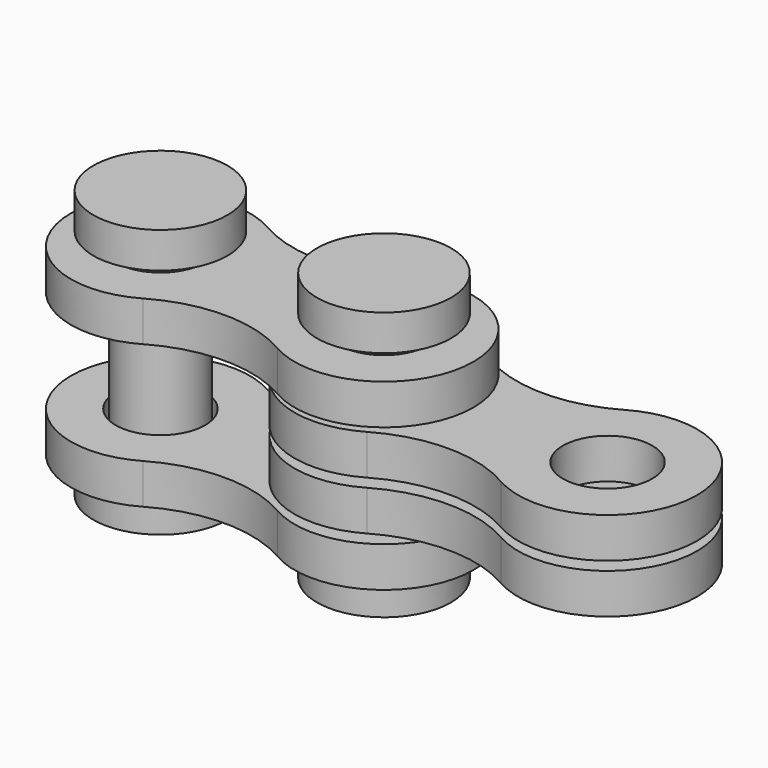
from build123d import *

# Parameters (mm, degrees)
F0_R      = 2.5
F1_DEPTH  = 2.25
F2_R      = 2.25
F3_DEPTH  = 11
F7_R      = 3.75
F8_DEPTH  = 2
F9_R      = 3.75
F10_DEPTH = 2


with BuildPart() as f1:
    # F0 (on Top) → F1 (new body)
    with BuildSketch(Plane.XY):
        with BuildLine():
            ThreePointArc((10, 4.3301270189), (6.25, 3.3253175473), (2.5, 4.3301270189))
            ThreePointArc((2.5, 4.3301270189), (-5, 0), (2.5, -4.3301270189))
            ThreePointArc((2.5, -4.3301270189), (6.25, -3.3253175473), (10, -4.3301270189))
            ThreePointArc((10, -4.3301270189), (17.5, 0), (10, 4.3301270189))
        make_face()
        Circle(F0_R, mode=Mode.SUBTRACT)
        with Locations((12.5, 0)):
            Circle(F0_R, mode=Mode.SUBTRACT)
    extrude(amount=F1_DEPTH)


with BuildPart() as f3:
    # F2 (on Top) → F3 (new body)
    with BuildSketch(Plane.XY):
        Circle(F2_R)
    extrude(amount=F3_DEPTH)

    # F7 (on face) → F8 (join)
    with BuildSketch(Plane.XY.offset(11)):
        Circle(F7_R)
    extrude(amount=F8_DEPTH)



with BuildPart() as f3b:
    # F2 (on Top) → F3, piece 2 (new body)
    with BuildSketch(Plane.XY):
        with Locations((12.5, 0)):
            Circle(F2_R)
    extrude(amount=F3_DEPTH)

    # F7 (on face) → F8, piece 2 (join)
    with BuildSketch(Plane.XY.offset(11)):
        with Locations((12.5, 0)):
            Circle(F7_R)
    extrude(amount=F8_DEPTH)


with BuildPart() as f4_1:
    # F4: copy of F1
    add(f1.part.moved(Location((0, 0, 8))))


with BuildPart() as f5_1:
    # F5: copy of F1
    add(f1.part.moved(Location((12.5, 0, 2.75))))


with BuildPart() as f6_1:
    # F6: copy of F5_1
    add(f5_1.part.moved(Location((0, 0, 2.75))))


with BuildPart() as f3_1:
    add(f3.part)

    add(f3b.part)  # F10 merges F3b
    # F9 (on face) → F10 (join)
    with BuildSketch(Plane(origin=(0, 0, 0), x_dir=(1, 0, 0), z_dir=(0, 0, -1))):
        Circle(F9_R)
        with Locations((12.5, 0)):
            Circle(F9_R)
    extrude(amount=F10_DEPTH)


solid = Compound([f1.part, f4_1.part, f5_1.part, f6_1.part, f3_1.part])
